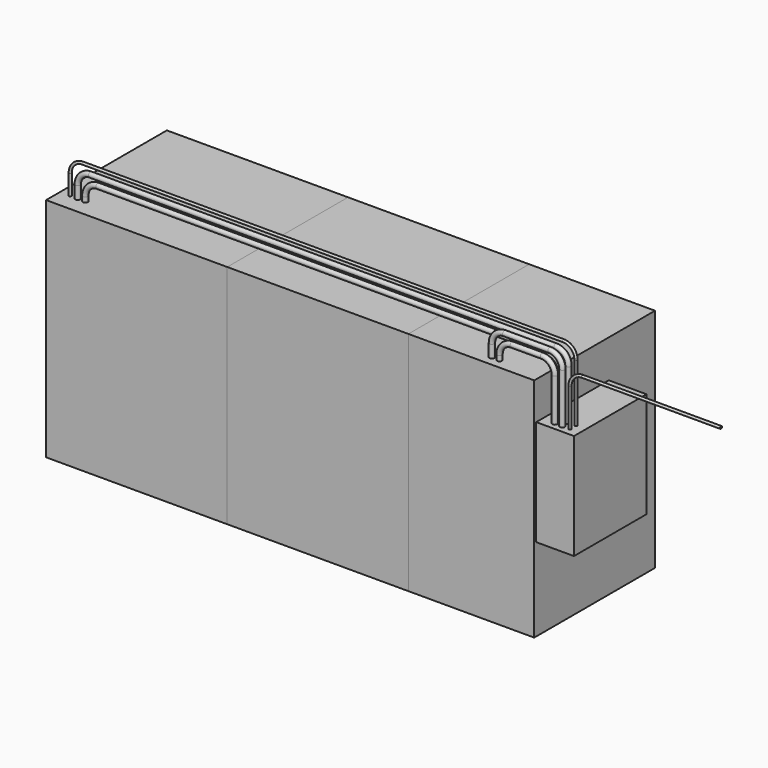
from build123d import *

# Parameters (mm, degrees)
F0_W     = 1828.8
F0_H     = 1524
F2_DEPTH = 2286
F1_W     = 1828.8
F1_H     = 1524
F1_W_2   = 1270
F3_W     = 914.4
F3_H     = 1066.8
F4_DEPTH = 381
F7_R     = 25.4
F7_R_2   = 12.7
F13_R    = 25.4
F13_R_2  = 12.7


with BuildPart() as f2:
    # F0 (on Top) → F2 (new body)
    with BuildSketch(Plane.XY):
        with Locations((914.4, 762)):
            Rectangle(F0_W, F0_H)
    extrude(amount=F2_DEPTH)


with BuildPart() as f2b:
    # F1 (on Top) → F2, piece 2 (new body)
    with BuildSketch(Plane.XY):
        with Locations((-914.4, 762)):
            Rectangle(F1_W, F1_H)
    extrude(amount=F2_DEPTH)


with BuildPart() as f2c:
    # F1 (on Top) → F2, piece 3 (new body)
    with BuildSketch(Plane.XY):
        with Locations((2463.8, 762)):
            Rectangle(F1_W_2, F1_H)
    extrude(amount=F2_DEPTH)


with BuildPart() as f4:
    # F3 (on face) → F4 (new body)
    with BuildSketch(Plane.YZ.offset(3098.8)):
        with Locations((482.6, 1371.6)):
            Rectangle(F3_W, F3_H)
    extrude(amount=F4_DEPTH)


with BuildPart() as f8:
    # F8: sweep along a path in F6
    with BuildLine(Plane.XZ.offset(-101.6)) as f8_path:
        Line((3302, 1905), (3302, 2413))
        ThreePointArc((3302, 2413), (3264.8025612107, 2502.8025612107), (3175, 2540))
        Line((3175, 2540), (2717.8, 2540))
        ThreePointArc((2717.8, 2540), (2627.9974387893, 2502.8025612107), (2590.8, 2413))
        Line((2590.8, 2413), (2590.8, 2286))
    # F7 (on face) → F8 (sweep)
    with BuildSketch(Plane.XY.offset(1905)):
        with Locations((3302, 101.6)):
            Circle(F7_R)
    sweep(path=f8_path.line)


with BuildPart() as f9:
    # F9: sweep along a path in F6
    with BuildLine(Plane.XZ.offset(-101.6)) as f9_path:
        Line((3225.8, 1905), (3225.8, 2336.8))
        ThreePointArc((3225.8, 2336.8), (3188.6025612107, 2426.6025612107), (3098.8, 2463.8))
        Line((3098.8, 2463.8), (2794, 2463.8))
        ThreePointArc((2794, 2463.8), (2704.1974387893, 2426.6025612107), (2667, 2336.8))
        Line((2667, 2336.8), (2667, 2286))
    # F7 (on face) → F9 (sweep)
    with BuildSketch(Plane.XY.offset(1905)):
        with Locations((3225.8, 101.6)):
            Circle(F7_R)
    sweep(path=f9_path.line)


with BuildPart() as f10:
    # F10: sweep along a path in F6
    with BuildLine(Plane.XZ.offset(-101.6)) as f10_path:
        Line((3378.2, 1905), (3378.2, 2286))
        ThreePointArc((3378.2, 2286), (3415.3974387893, 2375.8025612107), (3505.2, 2413))
        Line((3505.2, 2413), (4902.2, 2413))
    # F7 (on face) → F10 (sweep)
    with BuildSketch(Plane.XY.offset(1905)):
        with Locations((3378.2, 101.6)):
            Circle(F7_R_2)
    sweep(path=f10_path.line)


with BuildPart() as f14:
    # F14: sweep along a path in F12
    with BuildLine(Plane.XZ.offset(-177.8)) as f14_path:
        Line((3302, 1905), (3302, 2413))
        ThreePointArc((3302, 2413), (3264.8025612107, 2502.8025612107), (3175, 2540))
        Line((3175, 2540), (-1524, 2540))
        ThreePointArc((-1524, 2540), (-1613.8025612107, 2502.8025612107), (-1651, 2413))
        Line((-1651, 2413), (-1651, 2286))
    # F13 (on face) → F14 (sweep)
    with BuildSketch(Plane.XY.offset(1905)):
        with Locations((3302, 177.8)):
            Circle(F13_R)
    sweep(path=f14_path.line)


with BuildPart() as f15:
    # F15: sweep along a path in F12
    with BuildLine(Plane.XZ.offset(-177.8)) as f15_path:
        Line((-1727.2, 2286), (-1727.2, 2489.2))
        ThreePointArc((-1727.2, 2489.2), (-1690.0025612107, 2579.0025612107), (-1600.2, 2616.2))
        Line((-1600.2, 2616.2), (3251.2, 2616.2))
        ThreePointArc((3251.2, 2616.2), (3341.0025612107, 2579.0025612107), (3378.2, 2489.2))
        Line((3378.2, 2489.2), (3378.2, 1905))
    # F13 (on face) → F15 (sweep)
    with BuildSketch(Plane.XY.offset(1905)):
        with Locations((3378.2, 177.8)):
            Circle(F13_R_2)
    sweep(path=f15_path.line)


with BuildPart() as f16:
    # F16: sweep along a path in F12
    with BuildLine(Plane.XZ.offset(-177.8)) as f16_path:
        Line((3225.8, 1905), (3225.8, 2336.8))
        ThreePointArc((3225.8, 2336.8), (3188.6025612107, 2426.6025612107), (3098.8, 2463.8))
        Line((3098.8, 2463.8), (-1447.8, 2463.8))
        ThreePointArc((-1447.8, 2463.8), (-1537.6025612107, 2426.6025612107), (-1574.8, 2336.8))
        Line((-1574.8, 2336.8), (-1574.8, 2286))
    # F13 (on face) → F16 (sweep)
    with BuildSketch(Plane.XY.offset(1905)):
        with Locations((3225.8, 177.8)):
            Circle(F13_R)
    sweep(path=f16_path.line)


solid = Compound([f2.part, f2b.part, f2c.part, f4.part, f8.part, f9.part, f10.part, f14.part, f15.part, f16.part])
